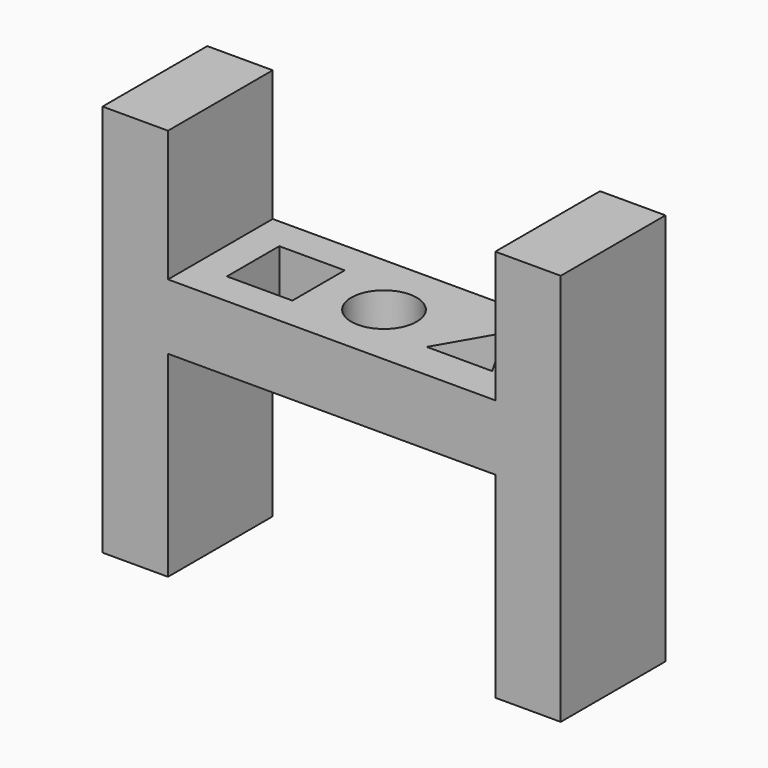
from build123d import *

# Parameters (mm, degrees)
F1_DEPTH = 25.4
F2_W     = 12.7
F2_H     = 12.7
F3_DEPTH = 25.4
F4_R     = 6.35
F5_DEPTH = 25.4
F7_DEPTH = 25.4


with BuildPart() as f1:
    # F0 (on Front) → F1 (new body)
    with BuildSketch(Plane.XZ):
        Polygon((-46.628909, 38.1), (-59.328909, 38.1), (-59.328909, -38.1), (-46.628909, -38.1), (-46.628909, 0), (16.871091, 0), (16.871091, -38.1), (29.571091, -38.1), (29.571091, 38.1), (16.871091, 38.1), (16.871091, 12.7), (-46.628909, 12.7), align=None)
    extrude(amount=F1_DEPTH)

    # F2 (on face) → F3 (cut)
    with BuildSketch(Plane.XY.offset(12.7)):
        with Locations((-33.928909, -12.7)):
            Rectangle(F2_W, F2_H)
    extrude(amount=-F3_DEPTH, mode=Mode.SUBTRACT)

    # F4 (on face) → F5 (cut)
    with BuildSketch(Plane.XY.offset(12.7)):
        with Locations((-14.878909, -12.7)):
            Circle(F4_R)
    extrude(amount=-F5_DEPTH, mode=Mode.SUBTRACT)

    # F6 (on face) → F7 (cut)
    with BuildSketch(Plane.XY.offset(12.7)):
        Polygon((4.171091, -7.2009), (-2.178909, -18.199423), (10.521091, -18.199423), align=None)
    extrude(amount=-F7_DEPTH, mode=Mode.SUBTRACT)


solid = f1.part
